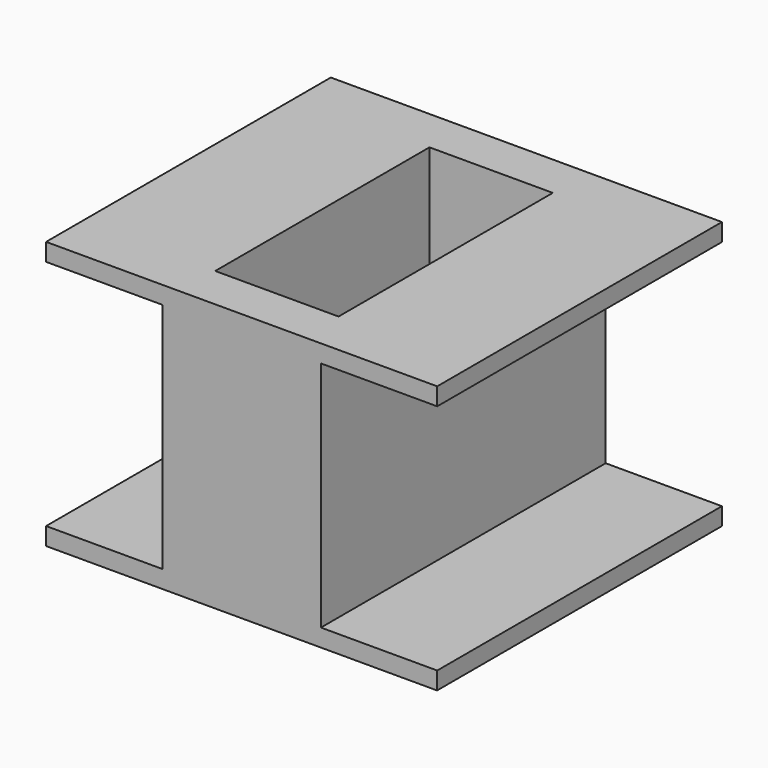
from build123d import *

# Parameters (mm, degrees)
F1_DEPTH = 10.1
F2_W     = 3.5
F2_H     = 7.6
F3_DEPTH = 10


with BuildPart() as f1:
    # F0 (on Front) → F1 (new body)
    with BuildSketch(Plane.XZ):
        Polygon((-4.1, 3.3), (-0.8, 3.3), (-0.8, -3.3), (-4.1, -3.3), (-4.1, -3.8), (6.996357, -3.8), (7, -3.3), (3.7, -3.3), (3.7, 3.3), (7, 3.3), (7, 3.8), (-4.1, 3.8), align=None)
    extrude(amount=F1_DEPTH)

    # F2 (on face) → F3 (cut)
    with BuildSketch(Plane.XY.offset(3.8)):
        with Locations((1.45, -5.05)):
            Rectangle(F2_W, F2_H)
    extrude(amount=-F3_DEPTH, mode=Mode.SUBTRACT)


solid = f1.part
